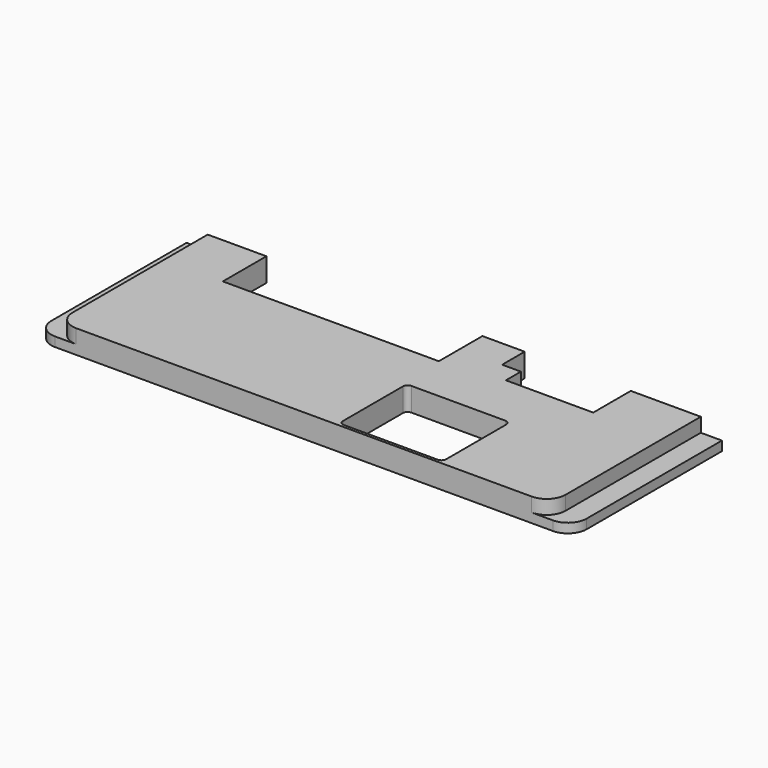
from build123d import *

# Parameters (mm, degrees)
F1_DEPTH = 1
F3_DEPTH = 1.5
F4_W     = 23
F4_H     = 5.8
F5_DEPTH = 2.5


with BuildPart() as f1:
    # F0 (on Top) → F1 (new body)
    with BuildSketch(Plane.XY):
        with BuildLine():
            ThreePointArc((0, 2), (0.585786, 0.585786), (2, 0))
            Line((2, 0), (55, 0))
            ThreePointArc((55, 0), (56.414214, 0.585786), (57, 2))
            Line((57, 2), (57, 20))
            Line((57, 20), (0, 20))
            Line((0, 20), (0, 2))
        make_face()
    extrude(amount=F1_DEPTH)

    # F2 (on face) → F3 (join)
    with BuildSketch(Plane.XY.offset(1)):
        with BuildLine():
            Line((54.75, 20), (2.25, 20))
            Line((2.25, 20), (2.25, 2))
            ThreePointArc((2.25, 2), (2.835786, 0.585786), (4.25, 0))
            Line((4.25, 0), (52.75, 0))
            ThreePointArc((52.75, 0), (54.164214, 0.585786), (54.75, 2))
            Line((54.75, 2), (54.75, 20))
        make_face()
    extrude(amount=F3_DEPTH)

    # F4 (on face) → F5 (cut, through all)
    with BuildSketch(Plane.XY):
        with Locations((20, 17.1)):
            Rectangle(F4_W, F4_H)
        Polygon((47.3, 20), (36, 20), (36, 17), (38, 17), (38, 15), (47.3, 15), align=None)
        with BuildLine():
            Line((42.5, 9.3), (32.5, 9.3))
            ThreePointArc((32.5, 9.3), (32.146447, 9.153553), (32, 8.8))
            Line((32, 8.8), (32, 0.8))
            ThreePointArc((32, 0.8), (32.146447, 0.446447), (32.5, 0.3))
            Line((32.5, 0.3), (42.5, 0.3))
            ThreePointArc((42.5, 0.3), (42.853553, 0.446447), (43, 0.8))
            Line((43, 0.8), (43, 8.8))
            ThreePointArc((43, 8.8), (42.853553, 9.153553), (42.5, 9.3))
        make_face()
    extrude(amount=F5_DEPTH, mode=Mode.SUBTRACT)


solid = f1.part
